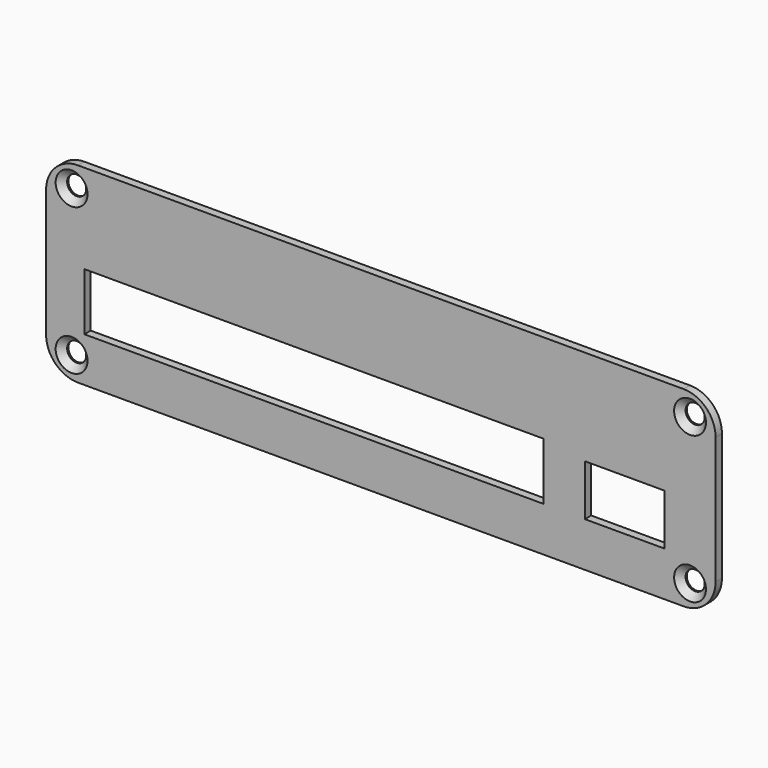
from build123d import *

# Parameters (mm, degrees)
F0_W     = 105
F0_H     = 30
F0_R     = 1.5
F0_W_2   = 72
F0_H_2   = 9
F0_W_3   = 12.5
F0_H_3   = 8
F1_DEPTH = 1.25
F2_R     = 5
F3_SIZE  = 1


with BuildPart() as f1:
    # F0 (on Front) → F1 (new body)
    with BuildSketch(Plane.XZ):
        with Locations((16.557691, -4.707695)):
            Rectangle(F0_W, F0_H)
        with Locations((-31.942309, -16.207695)):
            Circle(F0_R, mode=Mode.SUBTRACT)
        with Locations((6.057691, -8.207695)):
            Rectangle(F0_W_2, F0_H_2, mode=Mode.SUBTRACT)
        with Locations((65.057691, -16.207695)):
            Circle(F0_R, mode=Mode.SUBTRACT)
        with Locations((54.807691, -8.707695)):
            Rectangle(F0_W_3, F0_H_3, mode=Mode.SUBTRACT)
        with Locations((-31.942309, 6.792305)):
            Circle(F0_R, mode=Mode.SUBTRACT)
        with Locations((65.057691, 6.792305)):
            Circle(F0_R, mode=Mode.SUBTRACT)
    extrude(amount=F1_DEPTH)

    # F2
    f2_edges = [f1.edges().sort_by_distance(p)[0] for p in [
        (69.057691, -0.625, 10.292305),
        (69.057691, -0.625, -19.707695),
        (-35.942309, -0.625, -19.707695),
        (-35.942309, -0.625, 10.292305),
    ]]
    fillet(f2_edges, radius=F2_R)

    # F3
    f3_edges = [f1.edges().sort_by_distance(p)[0] for p in [
        (-33.442309, -1.25, 6.792305),
        (-33.442309, -1.25, -16.207695),
        (63.557691, -1.25, -16.207695),
        (63.557691, -1.25, 6.792305),
    ]]
    chamfer(f3_edges, length=F3_SIZE)


solid = f1.part
